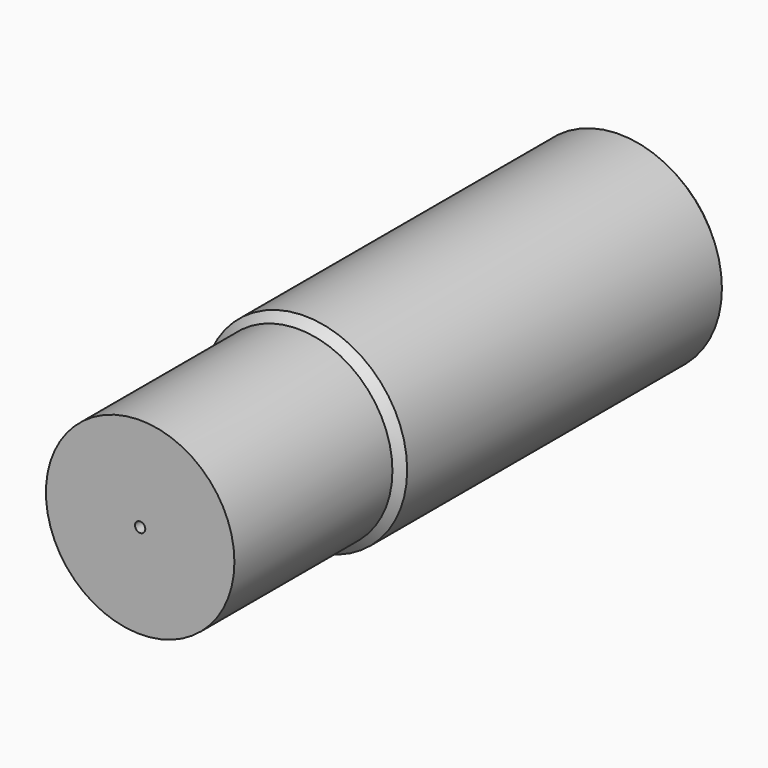
from build123d import *

# Parameters (mm, degrees)
F0_R     = 63.5
F1_DEPTH = 254
F2_SIZE2 = 5.08
F2_SIZE  = 5.08
F4_D     = 6.35
F5_DEPTH = 122.428


with BuildPart() as f1:
    # F0 (on Front) → F1 (new body)
    with BuildSketch(Plane.XZ):
        Circle(F0_R)
    extrude(amount=-F1_DEPTH)

    # F2
    f2_edges = [f1.edges().sort_by_distance(p)[0] for p in [
        (63.5, 127, 0),
        (-63.5, 0, 0),
        (-63.5, 254, 0),
    ]]
    chamfer(f2_edges, length=F2_SIZE, length2=F2_SIZE2)

    # F4 (through all)
    with Locations(Plane(origin=(0, 254, 0), x_dir=(-1, 0, 0), z_dir=(0, 1, 0))):
        with Locations((0, 0)):
            Hole(F4_D / 2)

    # F5 (add): a face of the model
    f5_faces = [f1.faces().sort_by_distance(p)[0] for p in [
        (-56.7676328737, 0, 0),
    ]]
    extrude(f5_faces, amount=F5_DEPTH)


solid = f1.part
